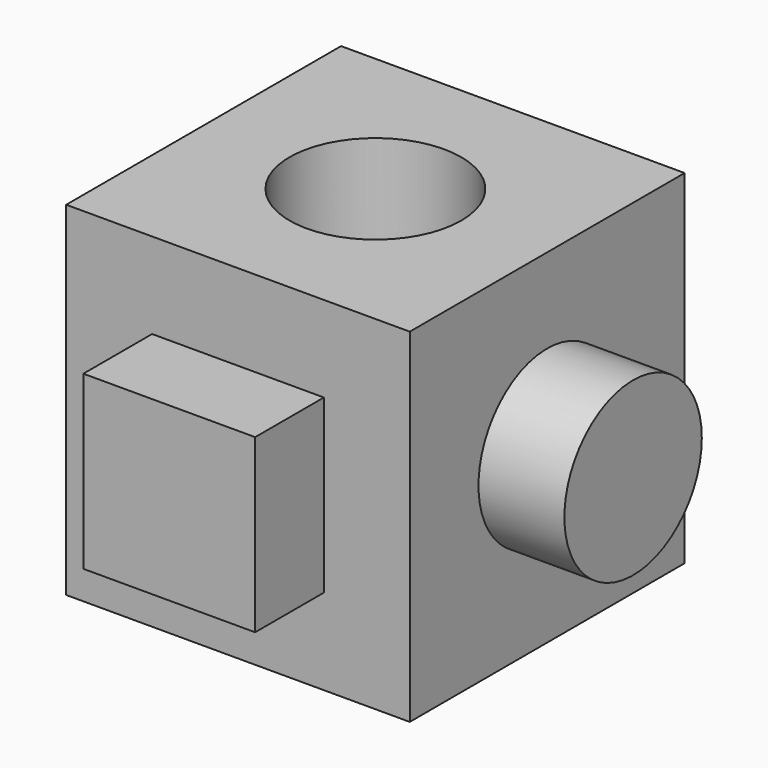
from build123d import *

# Parameters (mm, degrees)
F1_DEPTH = 50.8
F2_W     = 25.4
F2_H     = 25.4
F3_DEPTH = 12.7
F4_R     = 12.7
F5_DEPTH = 12.7
F6_R     = 12.7
F7_DEPTH = 50.8


with BuildPart() as f1:
    # F0 (on Front) → F1 (new body)
    with BuildSketch(Plane.XZ):
        Polygon((-25.4, 0), (0, 0), (25.4, 0), (25.4, 50.8), (-25.4, 50.8), align=None)
    extrude(amount=F1_DEPTH)

    # F2 (on face) → F3 (join)
    with BuildSketch(Plane.XZ.offset(50.8)):
        with Locations((0, 25.4)):
            Rectangle(F2_W, F2_H)
    extrude(amount=F3_DEPTH)

    # F4 (on face) → F5 (join)
    with BuildSketch(Plane.YZ.offset(25.4)):
        with Locations((-25.4, 25.592424)):
            Circle(F4_R)
    extrude(amount=F5_DEPTH)

    # F6 (on face) → F7 (cut)
    with BuildSketch(Plane.XY.offset(50.8)):
        with Locations((0, -25.4)):
            Circle(F6_R)
    extrude(amount=-F7_DEPTH, mode=Mode.SUBTRACT)


solid = f1.part
